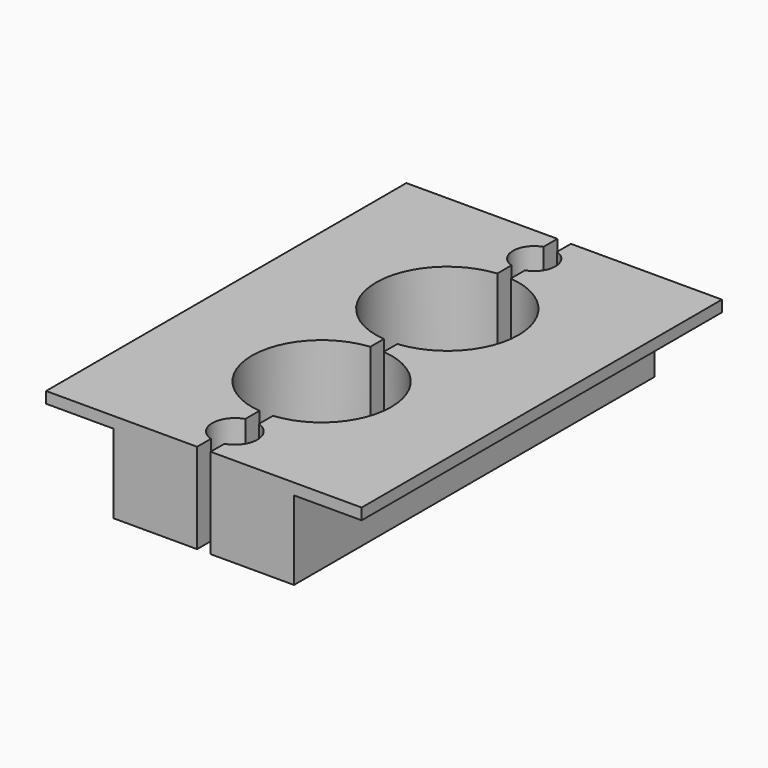
from build123d import *

# Parameters (mm, degrees)
F0_W          = 70
F0_H          = 99.9
F0_R          = 5
F0_R_2        = 15.45
F0_R_3        = 15.8
F0_R_4        = 4.7
F1_DEPTH      = 20
F2_W          = 22.177255
F2_H          = 30.59652
F3_DEPTH      = 49.951
F3_DEPTH_BACK = 49.951


with BuildPart() as f1:
    # F0 (on Top) → F1 (new body)
    with BuildSketch(Plane.XY):
        Rectangle(F0_W, F0_H)
        with Locations((0, -41.35)):
            Circle(F0_R, mode=Mode.SUBTRACT)
        with Locations((0, -17.3)):
            Circle(F0_R_2, mode=Mode.SUBTRACT)
        with Locations((0, 17.55)):
            Circle(F0_R_3, mode=Mode.SUBTRACT)
        with Locations((0, 41.65)):
            Circle(F0_R_4, mode=Mode.SUBTRACT)
    extrude(amount=-F1_DEPTH)

    # F2 (on Front) → F3 (cut, two sides)
    with BuildSketch(Plane.XZ) as f3_sk:
        Polygon((1.5, 0), (0, 0), (0, -32.908788), (1.5, -32.908788), (1.5, -5), align=None)
        Polygon((0, -32.908788), (0, 0), (-1.5, 0), (-1.5, -5), (-1.5, -32.908788), align=None)
        with Locations((31.088627, -17.79826)):
            Rectangle(F2_W, F2_H)
        with Locations((-31.088627, -17.79826)):
            Rectangle(F2_W, F2_H)
    extrude(amount=F3_DEPTH, mode=Mode.SUBTRACT)
    extrude(f3_sk.sketch, amount=-F3_DEPTH_BACK, mode=Mode.SUBTRACT)


solid = f1.part
